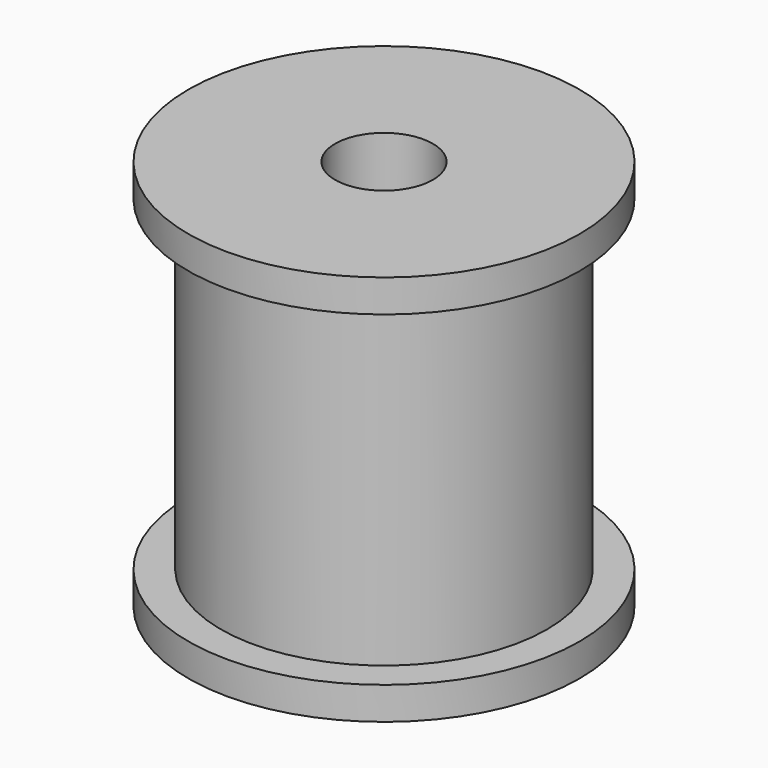
from build123d import *

# Parameters (mm, degrees)
SKETCH_R      = 5
SKETCH_R_2    = 1.5
PAD_DEPTH     = 10
SKETCH001_R   = 6
SKETCH001_R_2 = 1.5
PAD001_DEPTH  = 1
SKETCH002_R   = 6
SKETCH002_R_2 = 1.5
PAD002_DEPTH  = 1


with BuildPart() as part:
    # Sketch → Pad (new body)
    with BuildSketch(Plane.XY):
        Circle(SKETCH_R)
        Circle(SKETCH_R_2, mode=Mode.SUBTRACT)
    extrude(amount=PAD_DEPTH)

    # Sketch001 (on Face4 of Pad) → Pad001 (join)
    with BuildSketch(Plane.XY.offset(10)):
        Circle(SKETCH001_R)
        Circle(SKETCH001_R_2, mode=Mode.SUBTRACT)
    extrude(amount=PAD001_DEPTH)

    # Sketch002 (on Face2 of Pad001) → Pad002 (join)
    with BuildSketch(Plane(origin=(0, 0, 0), x_dir=(1, 0, 0), z_dir=(0, 0, -1))):
        Circle(SKETCH002_R)
        Circle(SKETCH002_R_2, mode=Mode.SUBTRACT)
    extrude(amount=PAD002_DEPTH)


solid = part.part
